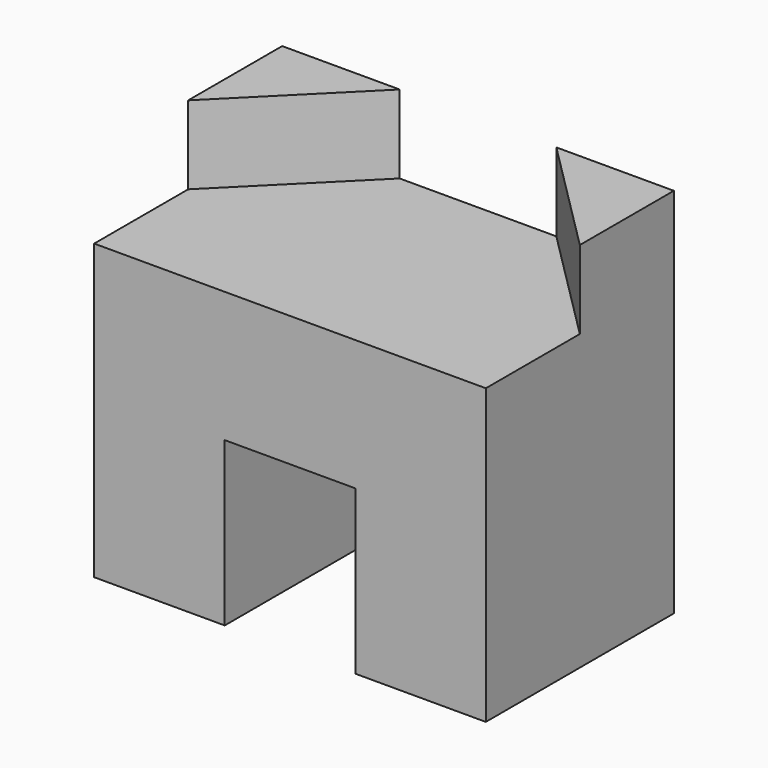
from build123d import *

# Parameters (mm, degrees)
F1_DEPTH = 180
F3_DEPTH = 120


with BuildPart() as f1:
    # F0 (on Front) → F1 (new body, symmetric)
    with BuildSketch(Plane.XZ):
        Polygon((300, -225), (300, 225), (-300, 225), (-300, -225), (-100, -225), (-100, 25), (100, 25), (100, -225), align=None)
    extrude(amount=F1_DEPTH, both=True)

    # F2 (on face) → F3 (join)
    with BuildSketch(Plane.XY.offset(225)):
        Polygon((-120, 180), (-300, 180), (-300, 0), align=None)
        Polygon((300, 0), (300, 180), (120, 180), align=None)
    extrude(amount=F3_DEPTH)


solid = f1.part
